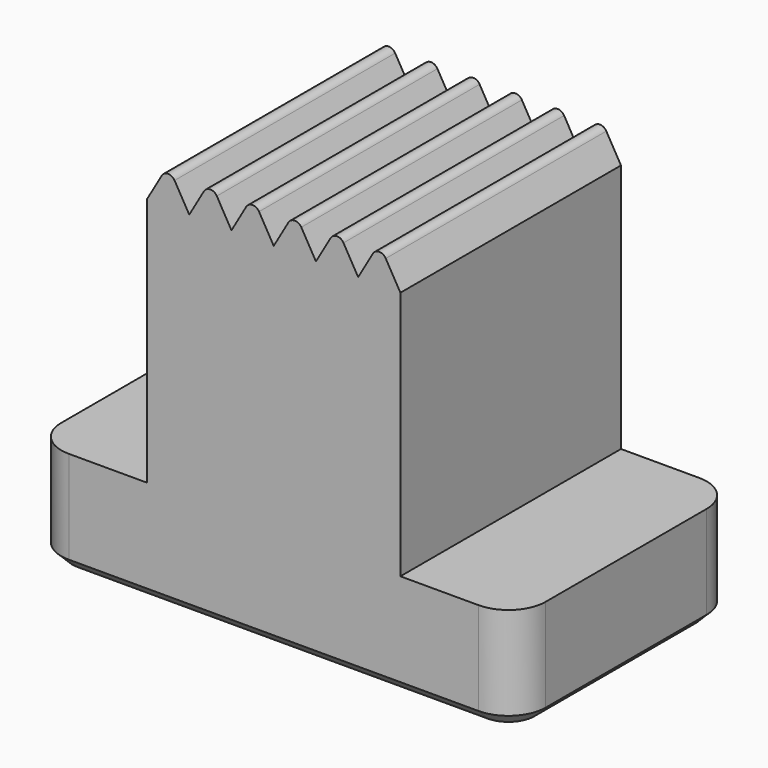
from build123d import *

# Parameters (mm, degrees)
PAD_DEPTH           = 7.4
SKETCH095_W         = 4
SKETCH095_H         = 5.5
POCKET045_DEPTH     = 6
PAD048_DEPTH        = 7.4
LINEARPATTERN_COUNT = 6
LINEARPATTERN_PITCH = 1.133333
FILLET_R            = 0.2
FILLET034_R         = 1
CHAMFER028_SIZE     = 0.3
CHAMFER029_SIZE     = 1


with BuildPart() as part:
    # Sketch → Pad (new body)
    with BuildSketch(Plane.XZ):
        Polygon((-6.5, 0), (6.5, 0), (6.5, 2.8), (3.4, 2.8), (3.4, 9.5), (-3.4, 9.5), (-3.4, 2.8), (-6.5, 2.8), align=None)
    extrude(amount=PAD_DEPTH)

    # Sketch095 → Pocket045 (cut)
    with BuildSketch(Plane.XZ):
        with Locations((0, 2.75)):
            Rectangle(SKETCH095_W, SKETCH095_H)
    extrude(amount=POCKET045_DEPTH, mode=Mode.SUBTRACT)

    # Sketch096 → Pad048 (join)
    with BuildSketch(Plane.XZ):
        Polygon((-3.4, 9.5), (-2.266667, 9.5), (-2.833333, 10.481495), align=None)
    pad048 = extrude(amount=PAD048_DEPTH)

    # LinearPattern: Pad048 ×6
    with Locations(*[(i * LINEARPATTERN_PITCH, 0, 0) for i in range(1, LINEARPATTERN_COUNT)]):
        add(pad048)

    # Fillet
    fillet_edges = [part.edges().sort_by_distance(p)[0] for p in [
        (-2.833333, -3.7, 10.481495),
        (-1.7, -3.7, 10.481495),
        (-0.566667, -3.7, 10.481495),
        (0.566667, -3.7, 10.481495),
        (1.7, -3.7, 10.481495),
        (2.833334, -3.7, 10.481495),
    ]]
    fillet(fillet_edges, radius=FILLET_R)

    # Fillet034
    fillet034_edges = [part.edges().sort_by_distance(p)[0] for p in [
        (-6.5, 0, 1.4),
        (-6.5, -7.4, 1.4),
        (6.5, -7.4, 1.4),
        (6.5, 0, 1.4),
    ]]
    fillet(fillet034_edges, radius=FILLET034_R)

    # Chamfer028
    chamfer028_edges = [part.edges().sort_by_distance(p)[0] for p in [
        (-3.75, 0, 0),
        (-6.207107, -0.292893, 0),
        (-2, -3, 0),
        (-6.5, -3.7, 0),
        (0, -6, 0),
        (-6.207107, -7.107107, 0),
        (2, -3, 0),
        (0, -7.4, 0),
        (3.75, 0, 0),
        (6.207107, -7.107107, 0),
        (6.207107, -0.292893, 0),
        (6.5, -3.7, 0),
    ]]
    chamfer(chamfer028_edges, length=CHAMFER028_SIZE)

    # Chamfer029
    chamfer029_edges = [part.edges().sort_by_distance(p)[0] for p in [
        (2, -3, 5.5),
        (-2, -3, 5.5),
    ]]
    chamfer(chamfer029_edges, length=CHAMFER029_SIZE)


with BuildPart() as part_1:
    # Body placement: moved
    add(part.part.moved(Location((-5, 14.5, 7.2))))


solid = part_1.part
